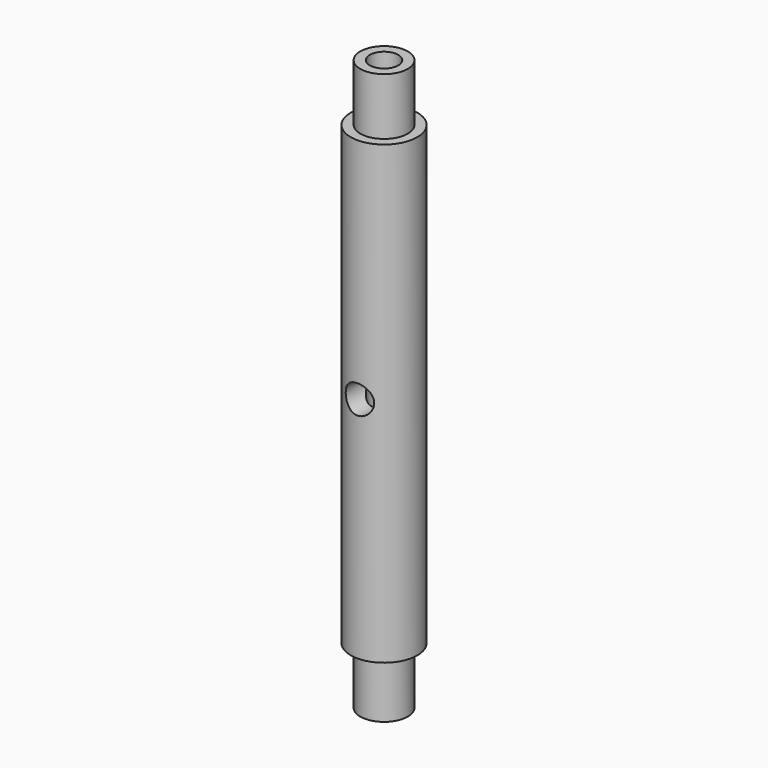
from build123d import *

# Parameters (mm, degrees)
F0_R          = 3.175
F1_DEPTH      = 7.62
F2_R          = 4.445
F3_DEPTH      = 60.96
F4_R          = 3.175
F5_DEPTH      = 7.62
F6_R          = 1.905
F7_DEPTH      = 25.4
F7_DEPTH_BACK = 25.4
F8_R          = 1.905
F9_DEPTH      = 76.201


with BuildPart() as f1:
    # F0 (on Top) → F1 (new body)
    with BuildSketch(Plane.XY):
        Circle(F0_R)
    extrude(amount=F1_DEPTH)

    # F2 (on face) → F3 (join)
    with BuildSketch(Plane.XY.offset(7.62)):
        Circle(F2_R)
    extrude(amount=F3_DEPTH)

    # F4 (on face) → F5 (join)
    with BuildSketch(Plane.XY.offset(68.58)):
        Circle(F4_R)
    extrude(amount=F5_DEPTH)

    # F6 (on Front) → F7 (cut, two sides)
    with BuildSketch(Plane.XZ) as f7_sk:
        with Locations((0, 38.1)):
            Circle(F6_R)
    extrude(amount=-F7_DEPTH, mode=Mode.SUBTRACT)
    extrude(f7_sk.sketch, amount=F7_DEPTH_BACK, mode=Mode.SUBTRACT)

    # F8 (on face) → F9 (cut, through all)
    with BuildSketch(Plane(origin=(0, 0, 0), x_dir=(1, 0, 0), z_dir=(0, 0, -1))):
        Circle(F8_R)
    extrude(amount=-F9_DEPTH, mode=Mode.SUBTRACT)


solid = f1.part
